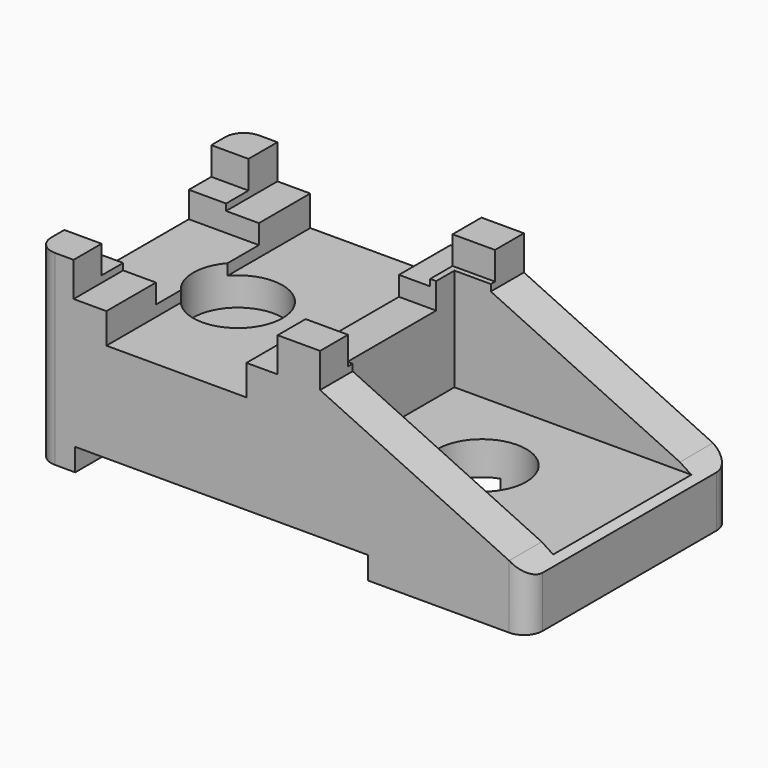
from build123d import *

# Parameters (mm, degrees)
F0_W      = 66.8964758515
F0_H      = 34.6800498664
F1_DEPTH  = 25.4
F2_R      = 6.0452
F3_DEPTH  = 25.401
F4_R      = 6.0753950253
F5_DEPTH  = 12.7
F6_W      = 33.2289449871
F6_H      = 23.5078325495
F6_R      = 6.0452
F7_DEPTH  = 17.78
F8_W      = 19.0628441051
F8_H      = 4.1393600404
F8_W_2    = 39.8685750552
F8_H_2    = 3.0596489087
F9_DEPTH  = 34.6810498664
F10_W     = 17.5169128925
F10_H     = 3.5316348076
F11_DEPTH = 66.8974758515
F12_R     = 2.54
F13_R     = 2.54
F15_DEPTH = 34.6810498664


with BuildPart() as f1:
    # F0 (on Top) → F1 (new body)
    with BuildSketch(Plane.XY):
        with Locations((33.4482379258, 17.3400249332)):
            Rectangle(F0_W, F0_H)
    extrude(amount=F1_DEPTH)

    # F2 (on face) → F3 (cut, through all)
    with BuildSketch(Plane.XY.offset(25.4)):
        with Locations((47.1864789724, 16.8195329607)):
            Circle(F2_R)
    extrude(amount=-F3_DEPTH, mode=Mode.SUBTRACT)

    # F4 (on face) → F5 (cut)
    with BuildSketch(Plane.XY.offset(25.4)):
        with Locations((14.1270142049, 16.6304875165)):
            Circle(F4_R)
    extrude(amount=-F5_DEPTH, mode=Mode.SUBTRACT)

    # F6 (on face) → F7 (cut)
    with BuildSketch(Plane.XY.offset(25.4)):
        with Locations((50.282003358, 17.2961675562)):
            Rectangle(F6_W, F6_H)
        with Locations((47.1864789724, 16.8195329607)):
            Circle(F6_R, mode=Mode.SUBTRACT)
    extrude(amount=-F7_DEPTH, mode=Mode.SUBTRACT)

    # F8 (on face) → F9 (cut, through all)
    with BuildSketch(Plane.XZ):
        with Locations((19.0694048069, 18.6367146671)):
            Rectangle(F8_W, F8_H)
        Polygon((32.8491181135, 25.4), (5.0718318671, 25.4), (5.0718318671, 20.7063946873), (9.5379827544, 20.7063946873), (28.6008268595, 20.7063946873), (32.8491181135, 20.7063946873), align=None)
        Polygon((66.8964758515, 25.4), (38.6224351823, 25.4), (66.8964758515, 6.9811479189), align=None)
        with Locations((25.2239794936, 1.5298244543)):
            Rectangle(F8_W_2, F8_H_2)
    extrude(amount=-F9_DEPTH, mode=Mode.SUBTRACT)

    # F10 (on face) → F11 (cut, through all)
    with BuildSketch(Plane(origin=(0, 0, 0), x_dir=(0, -1, 0), z_dir=(-1, 0, 0))):
        Polygon((-4.7551710159, 25.4), (-29.7591537237, 25.4), (-29.7591537237, 21.6030925512), (-25.944987312, 21.6030925512), (-8.4280744195, 21.6030925512), (-4.7551710159, 21.6030925512), align=None)
        with Locations((-17.1865308657, 19.8372751474)):
            Rectangle(F10_W, F10_H)
    extrude(amount=-F11_DEPTH, mode=Mode.SUBTRACT)

    # F12
    f12_edges = [f1.edges().sort_by_distance(p)[0] for p in [
        (66.896476, 0, 3.490574),
        (66.896476, 34.68005, 3.490574),
    ]]
    fillet(f12_edges, radius=F12_R)

    # F13
    f13_edges = [f1.edges().sort_by_distance(p)[0] for p in [
        (0, 34.68005, 12.7),
        (0, 0, 12.7),
    ]]
    fillet(f13_edges, radius=F13_R)

    # F14 (on face) → F15 (cut, through all)
    with BuildSketch(Plane.XZ):
        Polygon((64.3564758515, 8.6358065095), (38.6224351823, 25.4), (38.6224351823, 20.7063946873), align=None)
    extrude(amount=-F15_DEPTH, mode=Mode.SUBTRACT)


solid = f1.part
